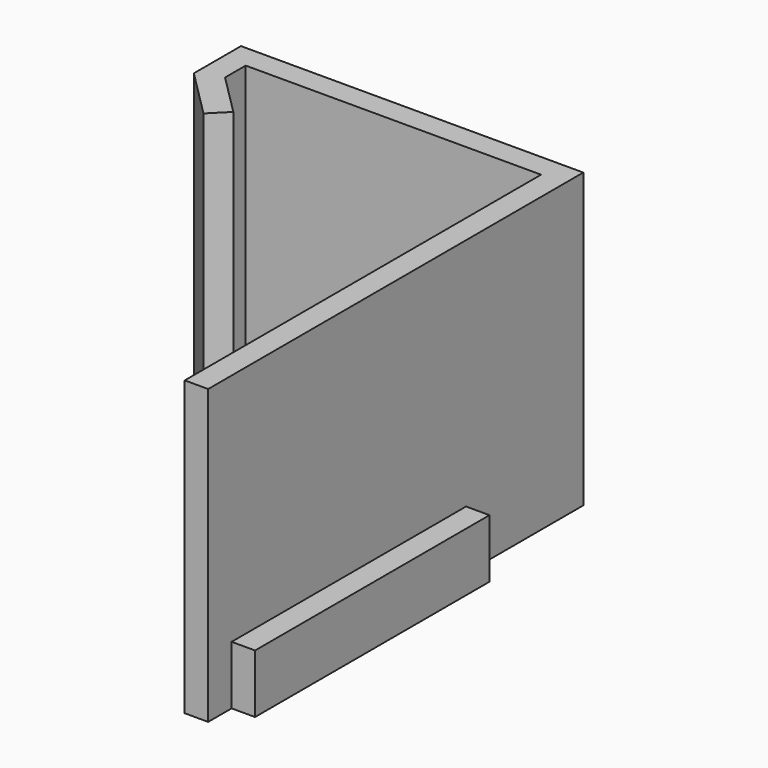
from build123d import *

# Parameters (mm, degrees)
F1_DEPTH = 25
F0_W     = 2
F0_H     = 25
F2_DEPTH = 5


with BuildPart() as f1:
    # F0 (on Top) → F1 (new body)
    with BuildSketch(Plane.XY):
        Polygon((-19.564466, 19.364466), (-23.1, 22.9), (-23.1, 25.1), (2.1, 25.1), (2.1, -12.9), (4.1, -12.9), (4.1, -10.4), (4.1, 14.6), (4.1, 27.1), (-25.1, 27.1), (-25.1, 22.071573), (-20.97868, 17.950253), align=None)
    extrude(amount=F1_DEPTH)

    # F0 (on Top) → F2 (join)
    with BuildSketch(Plane.XY):
        with Locations((5.1, 2.1)):
            Rectangle(F0_W, F0_H)
    extrude(amount=F2_DEPTH)


solid = f1.part
